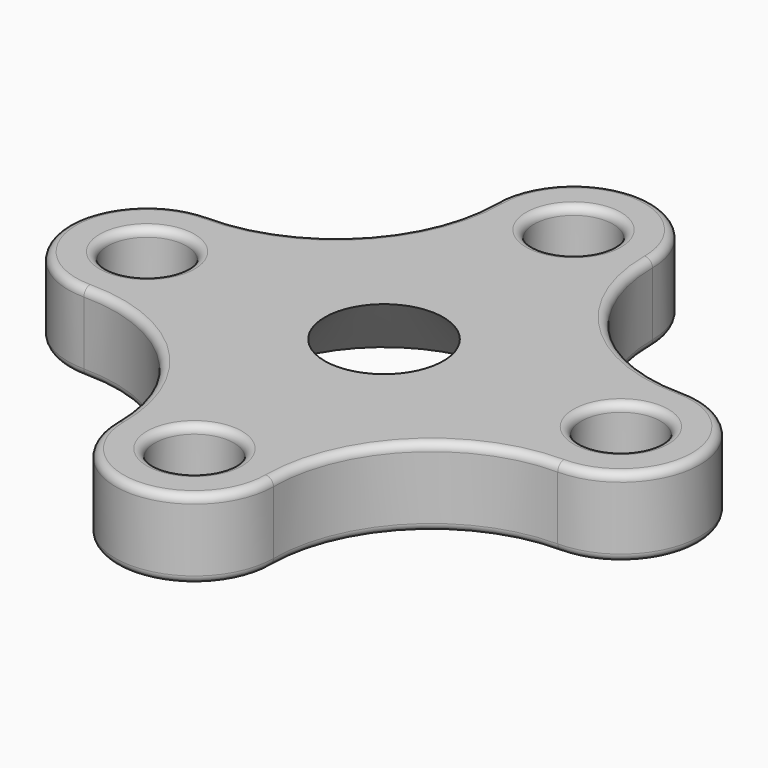
from build123d import *

# Parameters (mm, degrees)
F0_R     = 12.7
F1_DEPTH = 25.4
F2_R     = 2.54


with BuildPart() as f1:
    # F0 (on Top) → F1 (new body)
    with BuildSketch(Plane.XY):
        with BuildLine():
            ThreePointArc((76.2, 25.4), (40.278976, 40.278976), (25.4, 76.2))
            ThreePointArc((25.4, 76.2), (0, 101.6), (-25.4, 76.2))
            ThreePointArc((-25.4, 76.2), (-40.278976, 40.278976), (-76.2, 25.4))
            ThreePointArc((-76.2, 25.4), (-101.6, 0), (-76.2, -25.4))
            ThreePointArc((-76.2, -25.4), (-40.278976, -40.278976), (-25.4, -76.2))
            ThreePointArc((-25.4, -76.2), (0, -101.6), (25.4, -76.2))
            ThreePointArc((25.4, -76.2), (40.278976, -40.278976), (76.2, -25.4))
            ThreePointArc((76.2, -25.4), (101.6, 0), (76.2, 25.4))
        make_face()
        with Locations((0, -76.2)):
            Circle(F0_R, mode=Mode.SUBTRACT)
        with Locations((-76.2, 0)):
            Circle(F0_R, mode=Mode.SUBTRACT)
        with Locations((76.2, 0)):
            Circle(F0_R, mode=Mode.SUBTRACT)
        with Locations((0, 76.2)):
            Circle(F0_R, mode=Mode.SUBTRACT)
    extrude(amount=F1_DEPTH)

    # F2
    f2_edges = [f1.edges().sort_by_distance(p)[0] for p in [
        (40.278976, 40.278976, 25.4),
        (0, 101.6, 25.4),
        (-40.278976, 40.278976, 25.4),
        (-101.6, 0, 25.4),
        (-40.278976, -40.278976, 25.4),
        (0, -101.6, 25.4),
        (40.278976, -40.278976, 25.4),
        (101.6, 0, 25.4),
        (-12.7, -76.2, 25.4),
        (-88.9, 0, 25.4),
        (63.5, 0, 25.4),
        (-12.7, 76.2, 25.4),
        (40.278976, 40.278976, 0),
        (0, 101.6, 0),
        (-40.278976, 40.278976, 0),
        (-101.6, 0, 0),
        (-40.278976, -40.278976, 0),
        (0, -101.6, 0),
        (40.278976, -40.278976, 0),
        (101.6, 0, 0),
        (-12.7, -76.2, 0),
        (-88.9, 0, 0),
        (63.5, 0, 0),
        (-12.7, 76.2, 0),
    ]]
    fillet(f2_edges, radius=F2_R)

    # F3 (on Front) → F4 (revolve, cut)
    with BuildSketch(Plane.XZ):
        Polygon((-44.45, 0), (0, 0), (0, 25.4), (-19.05, 25.4), align=None)
    revolve(axis=Axis((0, 0, -8.501796), (0, 0, -1)), mode=Mode.SUBTRACT)


solid = f1.part
